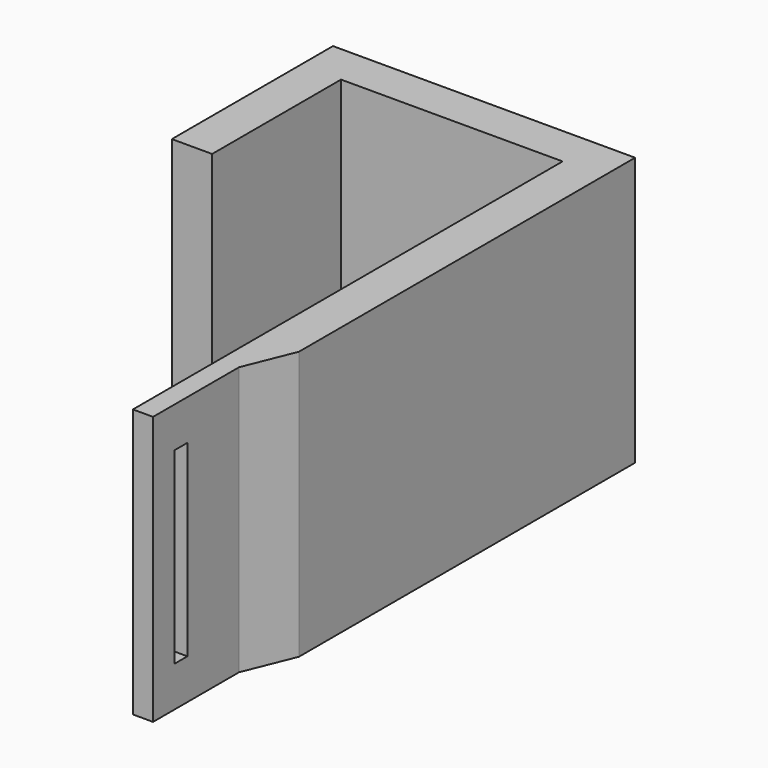
from build123d import *

# Parameters (mm, degrees)
F1_DEPTH = 20
F2_W     = 1.2
F2_H     = 14
F3_DEPTH = 5


with BuildPart() as f1:
    # F0 (on Top) → F1 (new body)
    with BuildSketch(Plane.XY):
        Polygon((-8.25, -12), (-8.25, 0), (8.25, 0), (8.25, -40), (9.75, -40), (9.75, -32), (11.25, -28.291901), (11.25, 3), (-11.25, 3), (-11.25, -12), align=None)
    extrude(amount=F1_DEPTH)

    # F2 (on face) → F3 (cut)
    with BuildSketch(Plane.YZ.offset(9.75)):
        with Locations((-37.4, 10)):
            Rectangle(F2_W, F2_H)
    extrude(amount=-F3_DEPTH, mode=Mode.SUBTRACT)


solid = f1.part
